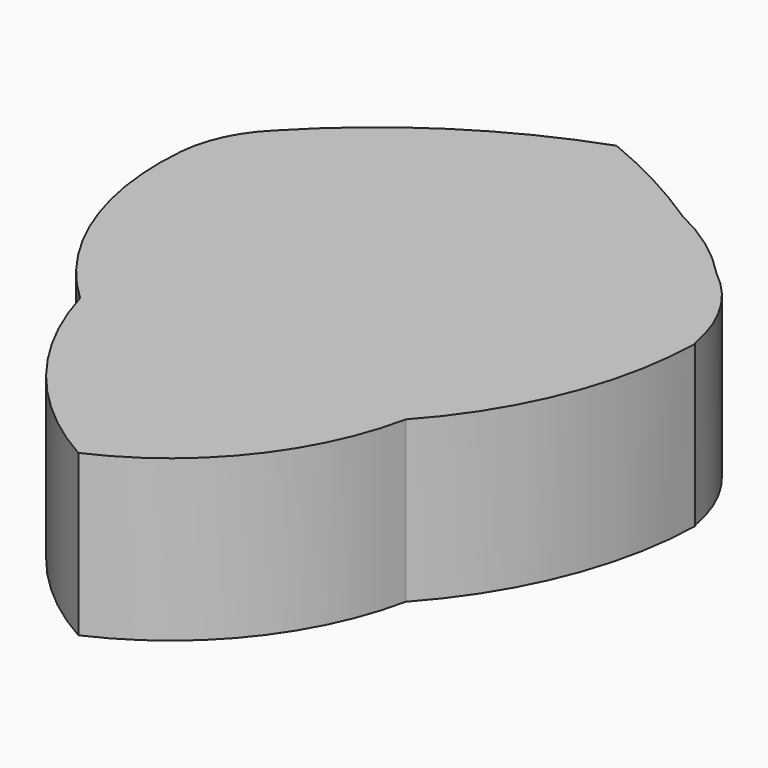
from build123d import *

# Parameters (mm, degrees)
F1_DEPTH = 3.96875


with BuildPart() as f1:
    # F0 (on Top) → F1 (new body)
    with BuildSketch(Plane.XY):
        with BuildLine():
            ThreePointArc((6.327746, 3.651619), (5.817408, 5.040304), (4.842658, 6.153296))
            ThreePointArc((4.842658, 6.153296), (3.908213, 6.97687), (2.837203, 7.612792))
            ThreePointArc((2.837203, 7.612792), (1.455709, 8.435292), (0, 9.117891))
            ThreePointArc((0, 9.117891), (-2.984964, 7.632257), (-5.546768, 5.498181))
            ThreePointArc((-5.546768, 5.498181), (-6.145468, 4.663163), (-6.411583, 3.670753))
            ThreePointArc((-6.411583, 3.670753), (-5.947905, 0.406573), (-4.103787, -2.326392))
            ThreePointArc((-4.103787, -2.326392), (-2.598583, -5.259348), (-0.090588, -7.398935))
            ThreePointArc((-0.090588, -7.398935), (2.544544, -5.363511), (3.970517, -2.354611))
            ThreePointArc((3.970517, -2.354611), (5.704057, 0.406109), (6.357343, 3.599845))
            Line((6.357343, 3.599845), (6.327746, 3.651619))
        make_face()
    extrude(amount=F1_DEPTH)


solid = f1.part
